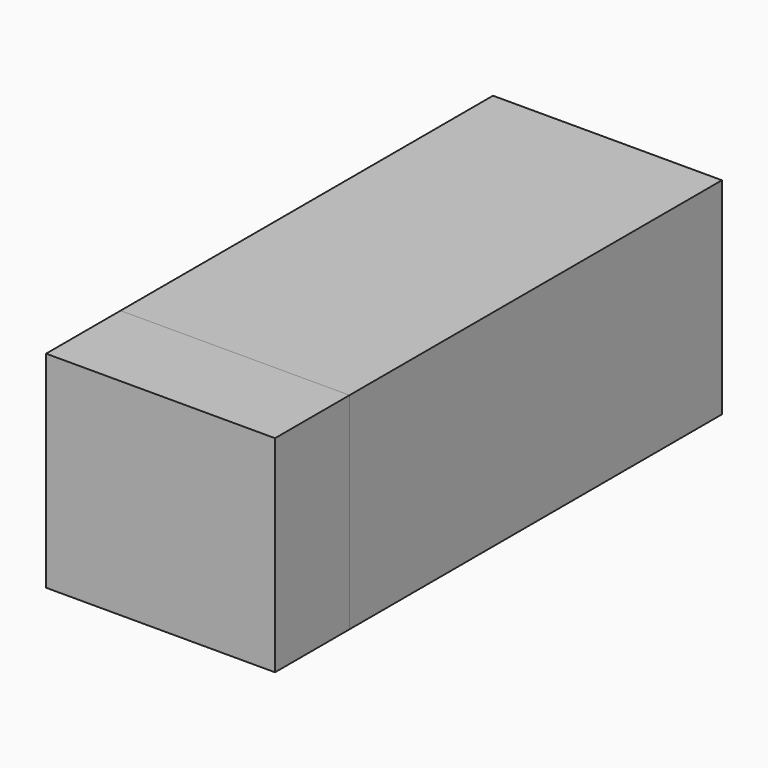
from build123d import *

# Parameters (mm, degrees)
F0_W      = 61.472039
F0_H      = 55.343989
F1_DEPTH  = 125
F1_FACE_W = 61.47204
F1_FACE_H = 55.34399
F2_DEPTH  = 25


with BuildPart() as f1:
    # F0 (on Front) → F1 (new body)
    with BuildSketch(Plane.XZ):
        with Locations((4.490187, -3.183541)):
            Rectangle(F0_W, F0_H)
    extrude(amount=F1_DEPTH)


with BuildPart() as f2:
    # F1_face (on face) → F2 (new body)
    with BuildSketch(Plane(origin=(4.490187, -125, -3.183542), x_dir=(1, 0, 0), z_dir=(0, -1, 0))):
        Rectangle(F1_FACE_W, F1_FACE_H)
    extrude(amount=F2_DEPTH)


solid = Compound([f1.part, f2.part])
